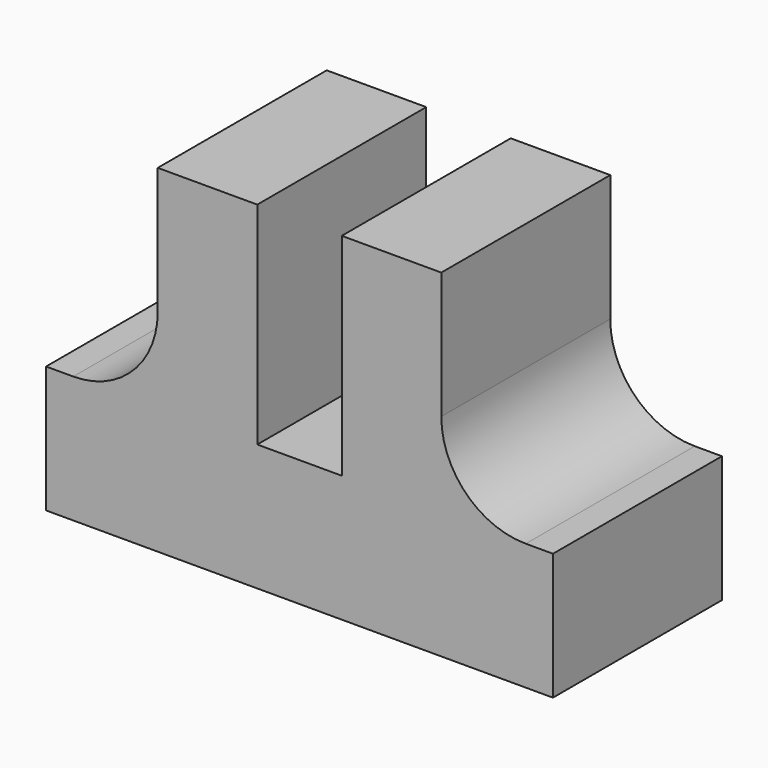
from build123d import *

# Parameters (mm, degrees)
F1_DEPTH = 15.875


with BuildPart() as f1:
    # F0 (on Front) → F1 (new body)
    with BuildSketch(Plane.XZ):
        with BuildLine():
            Line((-17.006651, 4.7625), (-19.05, 4.7625))
            Line((-19.05, 4.7625), (-19.05, -4.7625))
            Line((-19.05, -4.7625), (19.05, -4.7625))
            Line((19.05, -4.7625), (19.05, 4.7625))
            Line((19.05, 4.7625), (17.006651, 4.7625))
            ThreePointArc((17.006651, 4.7625), (12.516523, 6.622372), (10.656651, 11.1125))
            Line((10.656651, 11.1125), (10.656651, 20.6375))
            Line((10.656651, 20.6375), (3.175, 20.6375))
            Line((3.175, 20.6375), (3.175, 4.7625))
            Line((3.175, 4.7625), (-3.175, 4.7625))
            Line((-3.175, 4.7625), (-3.175, 20.6375))
            Line((-3.175, 20.6375), (-10.656651, 20.6375))
            Line((-10.656651, 20.6375), (-10.656651, 11.1125))
            ThreePointArc((-10.656651, 11.1125), (-12.516523, 6.622372), (-17.006651, 4.7625))
        make_face()
    extrude(amount=F1_DEPTH)


solid = f1.part
